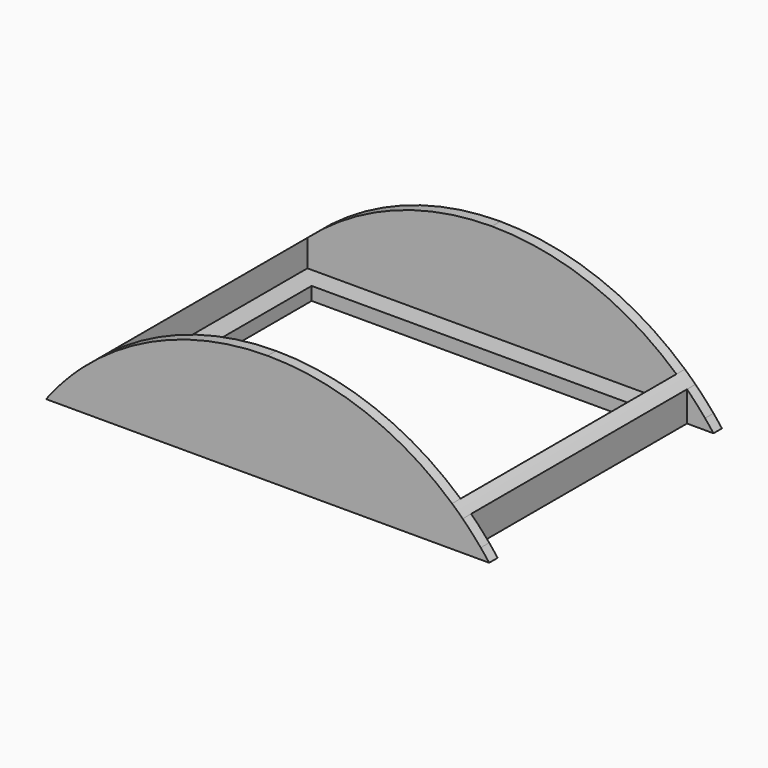
from build123d import *

# Parameters (mm, degrees)
F0_W      = 88.5811836569
F0_H      = 6.35
F1_DEPTH  = 2.54
F2_START  = 67.31
F2_DEPTH  = 2.54
F3_DEPTH  = 69.85
F4_W      = 90.1380174519
F4_H      = 3.175
F5_DEPTH  = 5.08
F6_W      = 90.1380174519
F6_H      = 3.175
F7_DEPTH  = 5.08
F8_W      = 54.61
F8_H      = 3.175
F9_DEPTH  = 5.08
F10_W     = 54.61
F10_H     = 3.175
F11_DEPTH = 5.08


with BuildPart() as f1:
    # F0 (on Front) → F1 (new body)
    with BuildSketch(Plane.XZ):
        with BuildLine():
            Line((-53.1805918284, 0), (-46.8305918284, 0))
            Line((-46.8305918284, 0), (-46.8305918284, 2.54))
            Line((-46.8305918284, 2.54), (-51.160757232, 2.54))
            ThreePointArc((-51.160757232, 2.54), (-52.1861301587, 1.2822904776), (-53.1805918284, 0))
        make_face()
        with BuildLine():
            Line((46.8305918284, 2.54), (46.8305918284, 0))
            Line((46.8305918284, 0), (53.1805918284, 0))
            ThreePointArc((53.1805918284, 0), (52.1861301587, 1.2822904776), (51.160757232, 2.54))
            Line((51.160757232, 2.54), (46.8305918284, 2.54))
        make_face()
        with BuildLine():
            Line((-46.8305918284, 0), (-44.2905918284, 0))
            Line((-44.2905918284, 0), (-44.2905918284, 6.35))
            Line((-44.2905918284, 6.35), (-44.2905918284, 9.6220642611))
            ThreePointArc((-44.2905918284, 9.6220642611), (-45.5761135004, 8.4492711462), (-46.8305918284, 7.2433301096))
            Line((-46.8305918284, 7.2433301096), (-46.8305918284, 2.54))
            Line((-46.8305918284, 2.54), (-46.8305918284, 0))
        make_face()
        with BuildLine():
            Line((44.2905918284, 6.35), (44.2905918284, 0))
            Line((44.2905918284, 0), (46.8305918284, 0))
            Line((46.8305918284, 0), (46.8305918284, 2.54))
            Line((46.8305918284, 2.54), (46.8305918284, 7.2433301096))
            ThreePointArc((46.8305918284, 7.2433301096), (45.5761135004, 8.4492711462), (44.2905918284, 9.6220642611))
            Line((44.2905918284, 9.6220642611), (44.2905918284, 6.35))
        make_face()
        with Locations((0, 3.175)):
            Rectangle(F0_W, F0_H)
        with BuildLine():
            Line((-51.160757232, 2.54), (-46.8305918284, 2.54))
            Line((-46.8305918284, 2.54), (-46.8305918284, 7.2433301096))
            ThreePointArc((-46.8305918284, 7.2433301096), (-49.0520789692, 4.9435943357), (-51.160757232, 2.54))
        make_face()
        with BuildLine():
            Line((46.8305918284, 7.2433301096), (46.8305918284, 2.54))
            Line((46.8305918284, 2.54), (51.160757232, 2.54))
            ThreePointArc((51.160757232, 2.54), (49.0520789692, 4.9435943357), (46.8305918284, 7.2433301096))
        make_face()
        with BuildLine():
            Line((-44.2905918284, 6.35), (44.2905918284, 6.35))
            Line((44.2905918284, 6.35), (44.2905918284, 9.6220642611))
            ThreePointArc((44.2905918284, 9.6220642611), (23.6913300639, 22.1072974627), (0, 26.4583333333))
            ThreePointArc((0, 26.4583333333), (-23.6913300639, 22.1072974627), (-44.2905918284, 9.6220642611))
            Line((-44.2905918284, 9.6220642611), (-44.2905918284, 6.35))
        make_face()
    extrude(amount=F1_DEPTH)



with BuildPart() as f2:
    # F0 (on Front) → F2 (new body)
    with BuildSketch(Plane.XZ.offset(F2_START)):
        with BuildLine():
            Line((-53.1805918284, 0), (-46.8305918284, 0))
            Line((-46.8305918284, 0), (-46.8305918284, 2.54))
            Line((-46.8305918284, 2.54), (-51.160757232, 2.54))
            ThreePointArc((-51.160757232, 2.54), (-52.1861301587, 1.2822904776), (-53.1805918284, 0))
        make_face()
        with BuildLine():
            Line((-51.160757232, 2.54), (-46.8305918284, 2.54))
            Line((-46.8305918284, 2.54), (-46.8305918284, 7.2433301096))
            ThreePointArc((-46.8305918284, 7.2433301096), (-49.0520789692, 4.9435943357), (-51.160757232, 2.54))
        make_face()
        with BuildLine():
            Line((-46.8305918284, 0), (-44.2905918284, 0))
            Line((-44.2905918284, 0), (-44.2905918284, 6.35))
            Line((-44.2905918284, 6.35), (-44.2905918284, 9.6220642611))
            ThreePointArc((-44.2905918284, 9.6220642611), (-45.5761135004, 8.4492711462), (-46.8305918284, 7.2433301096))
            Line((-46.8305918284, 7.2433301096), (-46.8305918284, 2.54))
            Line((-46.8305918284, 2.54), (-46.8305918284, 0))
        make_face()
        with Locations((0, 3.175)):
            Rectangle(F0_W, F0_H)
        with BuildLine():
            Line((44.2905918284, 6.35), (44.2905918284, 0))
            Line((44.2905918284, 0), (46.8305918284, 0))
            Line((46.8305918284, 0), (46.8305918284, 2.54))
            Line((46.8305918284, 2.54), (46.8305918284, 7.2433301096))
            ThreePointArc((46.8305918284, 7.2433301096), (45.5761135004, 8.4492711462), (44.2905918284, 9.6220642611))
            Line((44.2905918284, 9.6220642611), (44.2905918284, 6.35))
        make_face()
        with BuildLine():
            Line((46.8305918284, 7.2433301096), (46.8305918284, 2.54))
            Line((46.8305918284, 2.54), (51.160757232, 2.54))
            ThreePointArc((51.160757232, 2.54), (49.0520789692, 4.9435943357), (46.8305918284, 7.2433301096))
        make_face()
        with BuildLine():
            Line((46.8305918284, 2.54), (46.8305918284, 0))
            Line((46.8305918284, 0), (53.1805918284, 0))
            ThreePointArc((53.1805918284, 0), (52.1861301587, 1.2822904776), (51.160757232, 2.54))
            Line((51.160757232, 2.54), (46.8305918284, 2.54))
        make_face()
        with BuildLine():
            Line((-44.2905918284, 6.35), (44.2905918284, 6.35))
            Line((44.2905918284, 6.35), (44.2905918284, 9.6220642611))
            ThreePointArc((44.2905918284, 9.6220642611), (23.6913300639, 22.1072974627), (0, 26.4583333333))
            ThreePointArc((0, 26.4583333333), (-23.6913300639, 22.1072974627), (-44.2905918284, 9.6220642611))
            Line((-44.2905918284, 9.6220642611), (-44.2905918284, 6.35))
        make_face()
    extrude(amount=F2_DEPTH)


with BuildPart() as f1_1:
    add(f1.part)

    add(f2.part)  # F3 merges F2
    # F0 (on Front) → F3 (join)
    with BuildSketch(Plane.XZ):
        with BuildLine():
            Line((-46.8305918284, 0), (-44.2905918284, 0))
            Line((-44.2905918284, 0), (-44.2905918284, 6.35))
            Line((-44.2905918284, 6.35), (-44.2905918284, 9.6220642611))
            ThreePointArc((-44.2905918284, 9.6220642611), (-45.5761135004, 8.4492711462), (-46.8305918284, 7.2433301096))
            Line((-46.8305918284, 7.2433301096), (-46.8305918284, 2.54))
            Line((-46.8305918284, 2.54), (-46.8305918284, 0))
        make_face()
        with BuildLine():
            Line((44.2905918284, 6.35), (44.2905918284, 0))
            Line((44.2905918284, 0), (46.8305918284, 0))
            Line((46.8305918284, 0), (46.8305918284, 2.54))
            Line((46.8305918284, 2.54), (46.8305918284, 7.2433301096))
            ThreePointArc((46.8305918284, 7.2433301096), (45.5761135004, 8.4492711462), (44.2905918284, 9.6220642611))
            Line((44.2905918284, 9.6220642611), (44.2905918284, 6.35))
        make_face()
    extrude(amount=F3_DEPTH)

    # F4 (on face) → F5 (join)
    with BuildSketch(Plane.XZ.offset(2.54)):
        with Locations((0.7784168975, 1.5875)):
            Rectangle(F4_W, F4_H)
    extrude(amount=F5_DEPTH)

    # F6 (on face) → F7 (join)
    with BuildSketch(Plane(origin=(0, -67.31, 0), x_dir=(-1, 0, 0), z_dir=(0, 1, 0))):
        with Locations((0.7784168975, 1.5875)):
            Rectangle(F6_W, F6_H)
    extrude(amount=F7_DEPTH)

    # F8 (on face) → F9 (join)
    with BuildSketch(Plane.YZ.offset(-44.2905918284)):
        with Locations((-34.925, 1.5875)):
            Rectangle(F8_W, F8_H)
    extrude(amount=F9_DEPTH)

    # F10 (on face) → F11 (join)
    with BuildSketch(Plane(origin=(44.2905918284, 0, 0), x_dir=(0, -1, 0), z_dir=(-1, 0, 0))):
        with Locations((34.925, 1.5875)):
            Rectangle(F10_W, F10_H)
    extrude(amount=F11_DEPTH)


solid = f1_1.part
